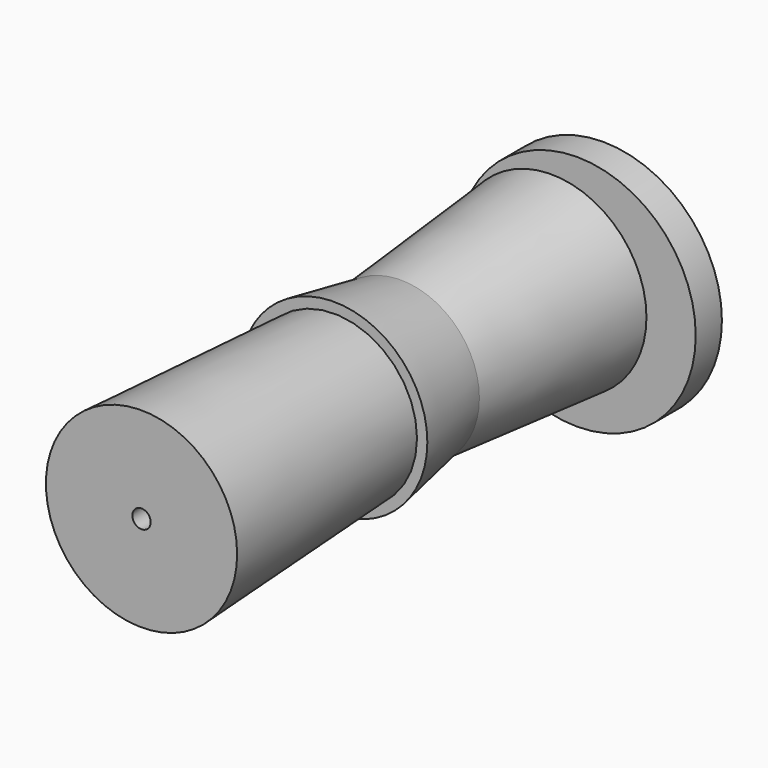
from build123d import *

# Parameters (mm, degrees)
F0_R          = 92.1420195992
F1_DEPTH      = 25.4
F3_R          = 61.0190606482
F3_R_2        = 20.30298842
F4_DEPTH      = 64.77
F4_TAPER      = -10
F4_FACE_R     = 61.0190606482
F4_FACE_R_2   = 20.30298842
F6_DEPTH      = 146.05
F6_TAPER      = -5
F6_DEPTH_BACK = 251.46
F6_TAPER_BACK = -3


with BuildPart() as f1:
    # F0 (on Front) → F1 (new body)
    with BuildSketch(Plane.XZ):
        Circle(F0_R)
    extrude(amount=F1_DEPTH)


with BuildPart() as f4:
    # F3 (on offset) → F4 (new body)
    with BuildSketch(Plane.XZ.offset(171.45)):
        with Locations((-19.8879856616, 0)):
            Circle(F3_R)
        with Locations((-19.8879856616, 0)):
            Circle(F3_R_2, mode=Mode.SUBTRACT)
    extrude(amount=F4_DEPTH, taper=F4_TAPER)


with BuildPart() as f6:
    # F4_face (on face) → F6 (new body, two sides)
    with BuildSketch(Plane(origin=(-19.8879856616, -171.45, 0), x_dir=(1, 0, 0), z_dir=(0, 1, 0))) as f6_sk:
        Circle(F4_FACE_R)
        Circle(F4_FACE_R_2, mode=Mode.SUBTRACT)
    extrude(amount=F6_DEPTH, taper=F6_TAPER)
    extrude(f6_sk.sketch, amount=-F6_DEPTH_BACK, taper=F6_TAPER_BACK)


solid = Compound([f1.part, f4.part, f6.part])
